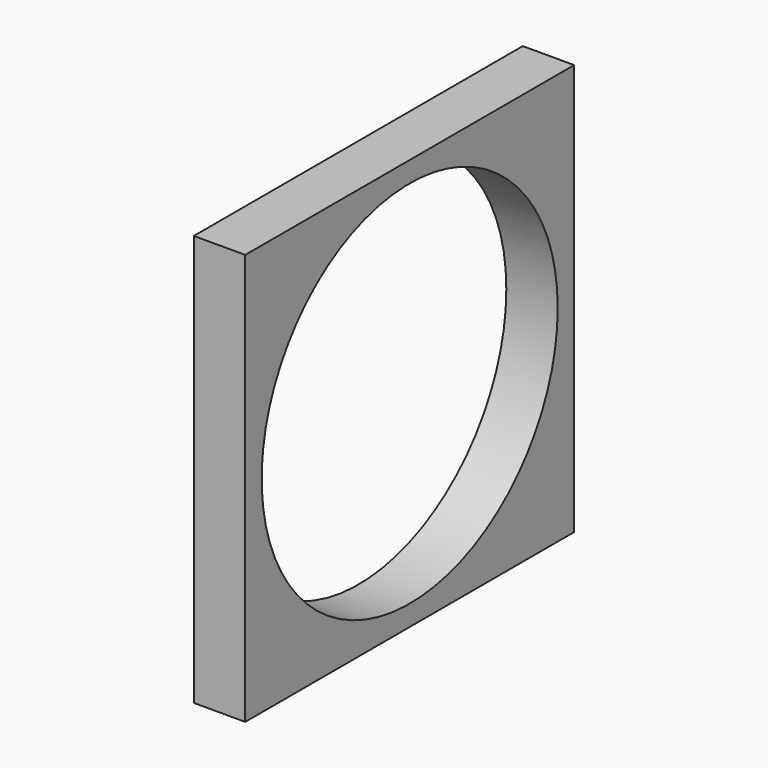
from build123d import *

# Parameters (mm, degrees)
F0_W     = 40
F0_H     = 40
F1_DEPTH = 5
F2_R     = 18
F3_DEPTH = 5


with BuildPart() as f1:
    # F0 (on Right) → F1 (new body)
    with BuildSketch(Plane.YZ):
        with Locations((20, 20)):
            Rectangle(F0_W, F0_H)
    extrude(amount=-F1_DEPTH)

    # F2 (on face) → F3 (cut, through all)
    with BuildSketch(Plane.YZ):
        with Locations((20, 20)):
            Circle(F2_R)
    extrude(amount=-F3_DEPTH, mode=Mode.SUBTRACT)


solid = f1.part
